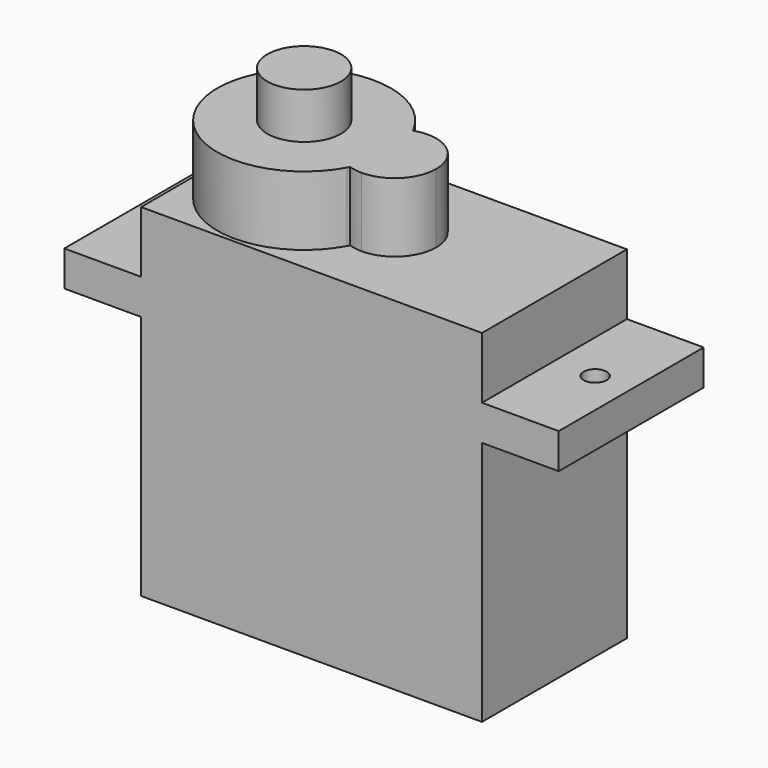
from build123d import *

# Parameters (mm, degrees)
F1_DEPTH = 11.8
F2_R     = 2.4
F3_DEPTH = 4.5
F4_DEPTH = 7.5
F2_R_2   = 0.75
F5_DEPTH = 22.301


with BuildPart() as f1:
    # F0 (on Front) → F1 (new body)
    with BuildSketch(Plane.XZ):
        Polygon((5, 16), (5, 0), (27.2, 0), (27.2, 16), (32.2, 16), (32.2, 18.3), (27.2, 18.3), (27.2, 22.3), (5, 22.3), (5, 18.3), (0, 18.3), (0, 16), align=None)
    extrude(amount=F1_DEPTH)

    # F2 (on face) → F3 (join)
    with BuildSketch(Plane.XY.offset(22.3)):
        with BuildLine():
            ThreePointArc((16.55, -5.9), (16.3947418047, -4.5845865669), (15.9375, -3.3414664845))
            ThreePointArc((15.9375, -3.3414664845), (14.1, -5.9), (15.9375, -8.4585335155))
            ThreePointArc((15.9375, -8.4585335155), (16.3947418047, -7.2154134331), (16.55, -5.9))
        make_face()
        with BuildLine():
            ThreePointArc((15.9375, -3.3414664845), (15.9008072344, -3.2704701932), (15.8631139419, -3.2))
            ThreePointArc((15.8631139419, -3.2), (5.25, -5.9), (15.8631139419, -8.6))
            ThreePointArc((15.8631139419, -8.6), (15.9008072344, -8.5295298068), (15.9375, -8.4585335155))
            ThreePointArc((15.9375, -8.4585335155), (14.1, -5.9), (15.9375, -3.3414664845))
        make_face()
        with Locations((10.9, -5.9)):
            Circle(F2_R, mode=Mode.SUBTRACT)
        with BuildLine():
            ThreePointArc((16.8, -3.2), (16.3629876958, -3.235601335), (15.9375, -3.3414664845))
            ThreePointArc((15.9375, -3.3414664845), (16.3947418047, -4.5845865669), (16.55, -5.9))
            ThreePointArc((16.55, -5.9), (16.3947418047, -7.2154134331), (15.9375, -8.4585335155))
            ThreePointArc((15.9375, -8.4585335155), (16.3629876958, -8.564398665), (16.8, -8.6))
            ThreePointArc((16.8, -8.6), (18.7091883092, -7.8091883092), (19.5, -5.9))
            ThreePointArc((19.5, -5.9), (18.7091883092, -3.9908116908), (16.8, -3.2))
        make_face()
    extrude(amount=F3_DEPTH)

    # F4 (add): a face of the model
    f4_faces = [f1.faces().sort_by_distance(p)[0] for p in [
        (10.9, -5.9, 22.3),
    ]]
    extrude(f4_faces, amount=F4_DEPTH)

    # F2 (on face) → F5 (cut, through all)
    with BuildSketch(Plane.XY.offset(22.3)):
        with Locations((2.35, -5.9)):
            Circle(F2_R_2)
        with Locations((29.85, -5.9)):
            Circle(F2_R_2)
    extrude(amount=-F5_DEPTH, mode=Mode.SUBTRACT)


solid = f1.part
